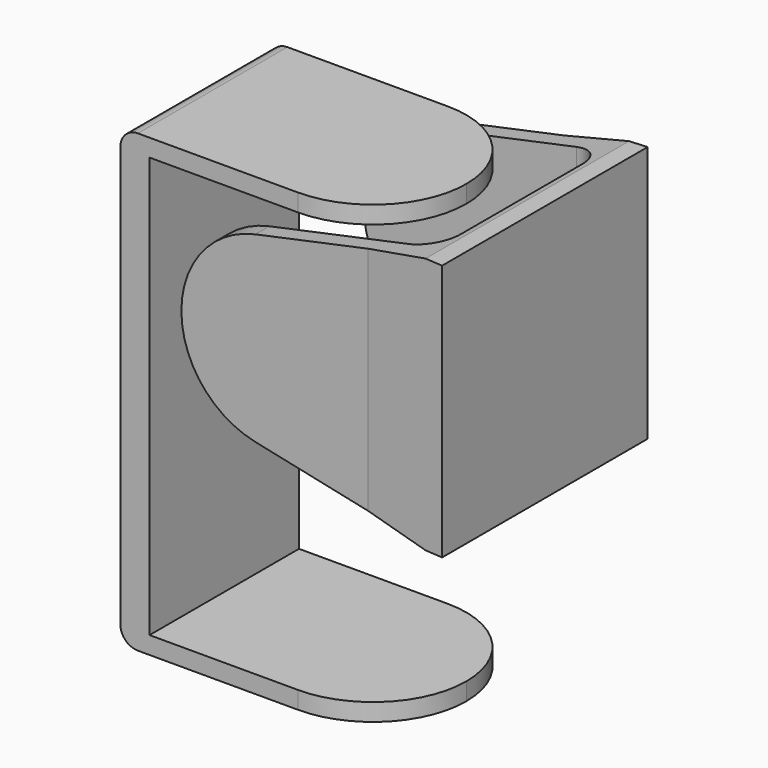
from build123d import *

# Parameters (mm, degrees)
F2_DEPTH      = 22
F3_W          = 43.4558441227
F3_H          = 18
F4_DEPTH      = 22.001
F4_DEPTH_BACK = 25
F5_R          = 5
F7_DEPTH      = 16
F9_START      = -57.001
F9_DEPTH      = 79.002


with BuildPart() as f2:
    # F1 (on Front) → F2 (new body)
    with BuildSketch(Plane.XZ):
        with BuildLine():
            ThreePointArc((-32.792074557, -15.6483087421), (-19.390549466, -12.4374371747), (-13.4558441227, 0))
            ThreePointArc((-13.4558441227, 0), (-19.390549466, 12.4374371747), (-32.792074557, 15.6483087421))
            ThreePointArc((-32.792074557, 15.6483087421), (-45.4558441227, 0), (-32.792074557, -15.6483087421))
        make_face()
        with BuildLine():
            ThreePointArc((-32.792074557, 15.6483087421), (-19.390549466, 12.4374371747), (-13.4558441227, 0))
            ThreePointArc((-13.4558441227, 0), (-19.390549466, -12.4374371747), (-32.792074557, -15.6483087421))
            Line((-32.792074557, -15.6483087421), (-3, -22))
            Line((-3, -22), (0, -22))
            Line((0, -22), (0, 22))
            Line((0, 22), (-3, 22))
            Line((-3, 22), (-32.792074557, 15.6483087421))
        make_face()
    extrude(amount=F2_DEPTH)

    # F3 (on Top) → F4 (cut, two sides)
    with BuildSketch(Plane.XY) as f4_sk:
        with Locations((-25.7279220614, -9)):
            Rectangle(F3_W, F3_H)
        Polygon((-13.4558441227, -21), (-47.4558441227, -21), (-47.4558441227, -22), (0, -22), align=None)
    extrude(amount=-F4_DEPTH, mode=Mode.SUBTRACT)
    extrude(f4_sk.sketch, amount=F4_DEPTH_BACK, mode=Mode.SUBTRACT)

    # F5
    f5_edges = [f2.edges().sort_by_distance(p)[0] for p in [
        (-4, -18, 0),
    ]]
    fillet(f5_edges, radius=F5_R)



with BuildPart() as f7:
    # F6 (on Front) → F7 (new body)
    with BuildSketch(Plane.XZ):
        with BuildLine():
            Line((-54.9116882454, 18), (-13.4558441227, 18))
            Line((-13.4558441227, 18), (-13.4558441227, 21))
            Line((-13.4558441227, 21), (-56.9116882454, 21))
            ThreePointArc((-56.9116882454, 21), (-59.033008589, 20.1213203436), (-59.9116882454, 18))
            Line((-59.9116882454, 18), (-59.9116882454, -54))
            ThreePointArc((-59.9116882454, -54), (-59.033008589, -56.1213203436), (-56.9116882454, -57))
            Line((-56.9116882454, -57), (-13.4558441227, -57))
            Line((-13.4558441227, -57), (-13.4558441227, -54))
            Line((-13.4558441227, -54), (-54.9116882454, -54))
            Line((-54.9116882454, -54), (-54.9116882454, 18))
        make_face()
    extrude(amount=F7_DEPTH)

    # F8 (on Top) → F9 (intersect)
    with BuildSketch(Plane.XY.offset(F9_START)):
        with BuildLine():
            ThreePointArc((-29.4558441227, -16), (-18.1421356237, -11.313708499), (-13.4558441227, 0))
            ThreePointArc((-13.4558441227, 0), (-29.4558441227, 16), (-45.4558441227, 0))
            ThreePointArc((-45.4558441227, 0), (-40.7695526217, -11.313708499), (-29.4558441227, -16))
        make_face()
        with BuildLine():
            ThreePointArc((-29.4558441227, -16), (-40.7695526217, -11.313708499), (-45.4558441227, 0))
            Line((-45.4558441227, 0), (-59.9116882454, 0))
            Line((-59.9116882454, 0), (-59.9116882454, -16))
            Line((-59.9116882454, -16), (-29.4558441227, -16))
        make_face()
    extrude(amount=F9_DEPTH, mode=Mode.INTERSECT)


with BuildPart() as f2_1:
    add(f2.part)

    add(f7.part)  # F10 merges F7
    # F10: F2, F7 across plane
    add(f2.part.mirror(Plane.XZ))
    add(f7.part.mirror(Plane.XZ))


solid = f2_1.part
